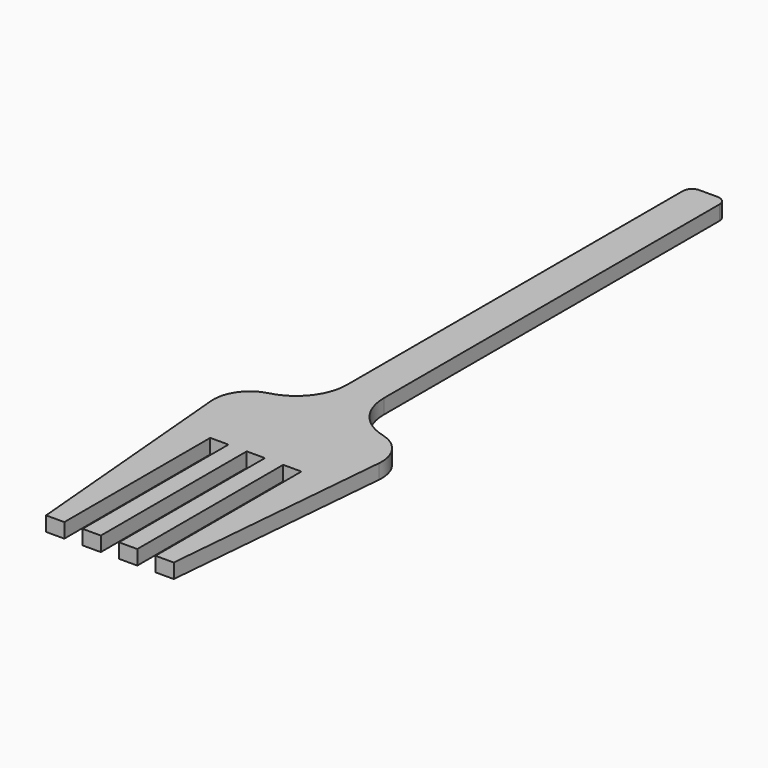
from build123d import *

# Parameters (mm, degrees)
F1_DEPTH = 2.54


with BuildPart() as f1:
    # F0 (on Top) → F1 (new body)
    with BuildSketch(Plane.XY):
        with BuildLine():
            Line((1.5875, 74.6125), (-1.5875, 74.6125))
            ThreePointArc((-1.5875, 74.6125), (-2.710032, 74.147532), (-3.175, 73.025))
            Line((-3.175, 73.025), (-3.175, 0))
            ThreePointArc((-3.175, 0), (-5.047427, -5.457634), (-9.875961, -8.616276))
            ThreePointArc((-9.875961, -8.616276), (-13.490185, -11.094803), (-14.638198, -15.324197))
            Line((-14.638198, -15.324197), (-11.1125, -55.623113))
            Line((-11.1125, -55.623113), (-7.9375, -55.623113))
            Line((-7.9375, -55.623113), (-7.9375, -23.873113))
            Line((-7.9375, -23.873113), (-4.7625, -23.873113))
            Line((-4.7625, -23.873113), (-4.7625, -55.623113))
            Line((-4.7625, -55.623113), (-1.5875, -55.623113))
            Line((-1.5875, -55.623113), (-1.5875, -23.873113))
            Line((-1.5875, -23.873113), (1.5875, -23.873113))
            Line((1.5875, -23.873113), (1.5875, -55.623113))
            Line((1.5875, -55.623113), (4.7625, -55.623113))
            Line((4.7625, -55.623113), (4.7625, -23.873113))
            Line((4.7625, -23.873113), (7.9375, -23.873113))
            Line((7.9375, -23.873113), (7.9375, -55.623113))
            Line((7.9375, -55.623113), (11.1125, -55.623113))
            Line((11.1125, -55.623113), (14.638197, -15.32421))
            ThreePointArc((14.638197, -15.32421), (13.490189, -11.094808), (9.875961, -8.616276))
            ThreePointArc((9.875961, -8.616276), (5.047427, -5.457634), (3.175, 0))
            Line((3.175, 0), (3.175, 73.025))
            ThreePointArc((3.175, 73.025), (2.710032, 74.147532), (1.5875, 74.6125))
        make_face()
    extrude(amount=F1_DEPTH)


solid = f1.part
